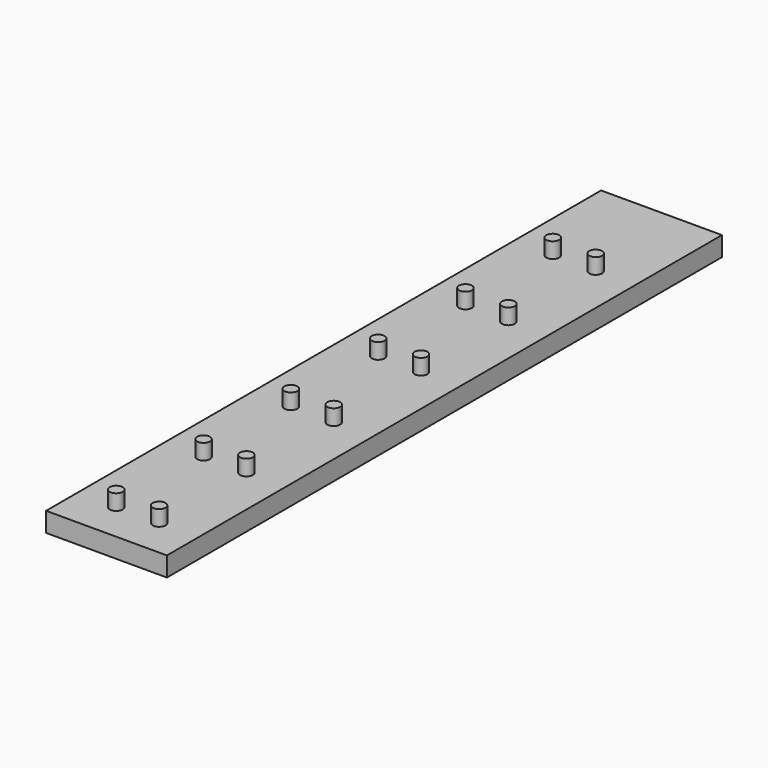
from build123d import *

# Parameters (mm, degrees)
BASE_W          = 31
BASE_H          = 178
BASE_DEPTH      = 5
SCREW0_R        = 1.65
SCREW0_DEPTH    = 10
SCREW0001_R     = 1.65
SCREW0001_DEPTH = 10
SCREW1_R        = 1.65
SCREW1_DEPTH    = 10
SCREW1001_R     = 1.65
SCREW1001_DEPTH = 10
SCREW2_R        = 1.65
SCREW2_DEPTH    = 10
SCREW2001_R     = 1.65
SCREW2001_DEPTH = 10
SCREW3_R        = 1.65
SCREW3_DEPTH    = 10
SCREW3001_R     = 1.65
SCREW3001_DEPTH = 10
SCREW4_R        = 1.65
SCREW4_DEPTH    = 10
SCREW4001_R     = 1.65
SCREW4001_DEPTH = 10
SCREW5_R        = 1.65
SCREW5_DEPTH    = 10
SCREW5001_R     = 1.65
SCREW5001_DEPTH = 10


with BuildPart() as base:
    # base → base (new body)
    with BuildSketch(Plane(origin=(-10, -10, 0), x_dir=(1, 0, 0), z_dir=(0, 0, 1))):
        with Locations((15.5, 89)):
            Rectangle(BASE_W, BASE_H)
    extrude(amount=BASE_DEPTH)


with BuildPart() as screw0:
    # screw0 → screw0 (new body)
    with BuildSketch(Plane.XY.offset(-1)):
        Circle(SCREW0_R)
    extrude(amount=SCREW0_DEPTH)


with BuildPart() as screw0001:
    # screw0001 → screw0001 (new body)
    with BuildSketch(Plane(origin=(11, 0, -1), x_dir=(1, 0, 0), z_dir=(0, 0, 1))):
        Circle(SCREW0001_R)
    extrude(amount=SCREW0001_DEPTH)


with BuildPart() as screw1:
    # screw1 → screw1 (new body)
    with BuildSketch(Plane(origin=(0, 28, -1), x_dir=(1, 0, 0), z_dir=(0, 0, 1))):
        Circle(SCREW1_R)
    extrude(amount=SCREW1_DEPTH)


with BuildPart() as screw1001:
    # screw1001 → screw1001 (new body)
    with BuildSketch(Plane(origin=(11, 28, -1), x_dir=(1, 0, 0), z_dir=(0, 0, 1))):
        Circle(SCREW1001_R)
    extrude(amount=SCREW1001_DEPTH)


with BuildPart() as screw2:
    # screw2 → screw2 (new body)
    with BuildSketch(Plane(origin=(0, 56, -1), x_dir=(1, 0, 0), z_dir=(0, 0, 1))):
        Circle(SCREW2_R)
    extrude(amount=SCREW2_DEPTH)


with BuildPart() as screw2001:
    # screw2001 → screw2001 (new body)
    with BuildSketch(Plane(origin=(11, 56, -1), x_dir=(1, 0, 0), z_dir=(0, 0, 1))):
        Circle(SCREW2001_R)
    extrude(amount=SCREW2001_DEPTH)


with BuildPart() as screw3:
    # screw3 → screw3 (new body)
    with BuildSketch(Plane(origin=(0, 84, -1), x_dir=(1, 0, 0), z_dir=(0, 0, 1))):
        Circle(SCREW3_R)
    extrude(amount=SCREW3_DEPTH)


with BuildPart() as screw3001:
    # screw3001 → screw3001 (new body)
    with BuildSketch(Plane(origin=(11, 84, -1), x_dir=(1, 0, 0), z_dir=(0, 0, 1))):
        Circle(SCREW3001_R)
    extrude(amount=SCREW3001_DEPTH)


with BuildPart() as screw4:
    # screw4 → screw4 (new body)
    with BuildSketch(Plane(origin=(0, 112, -1), x_dir=(1, 0, 0), z_dir=(0, 0, 1))):
        Circle(SCREW4_R)
    extrude(amount=SCREW4_DEPTH)


with BuildPart() as screw4001:
    # screw4001 → screw4001 (new body)
    with BuildSketch(Plane(origin=(11, 112, -1), x_dir=(1, 0, 0), z_dir=(0, 0, 1))):
        Circle(SCREW4001_R)
    extrude(amount=SCREW4001_DEPTH)


with BuildPart() as screw5:
    # screw5 → screw5 (new body)
    with BuildSketch(Plane(origin=(0, 140, -1), x_dir=(1, 0, 0), z_dir=(0, 0, 1))):
        Circle(SCREW5_R)
    extrude(amount=SCREW5_DEPTH)


with BuildPart() as screw5001:
    # screw5001 → screw5001 (new body)
    with BuildSketch(Plane(origin=(11, 140, -1), x_dir=(1, 0, 0), z_dir=(0, 0, 1))):
        Circle(SCREW5001_R)
    extrude(amount=SCREW5001_DEPTH)


solid = Compound([base.part, screw0.part, screw0001.part, screw1.part, screw1001.part, screw2.part, screw2001.part, screw3.part, screw3001.part, screw4.part, screw4001.part, screw5.part, screw5001.part])
